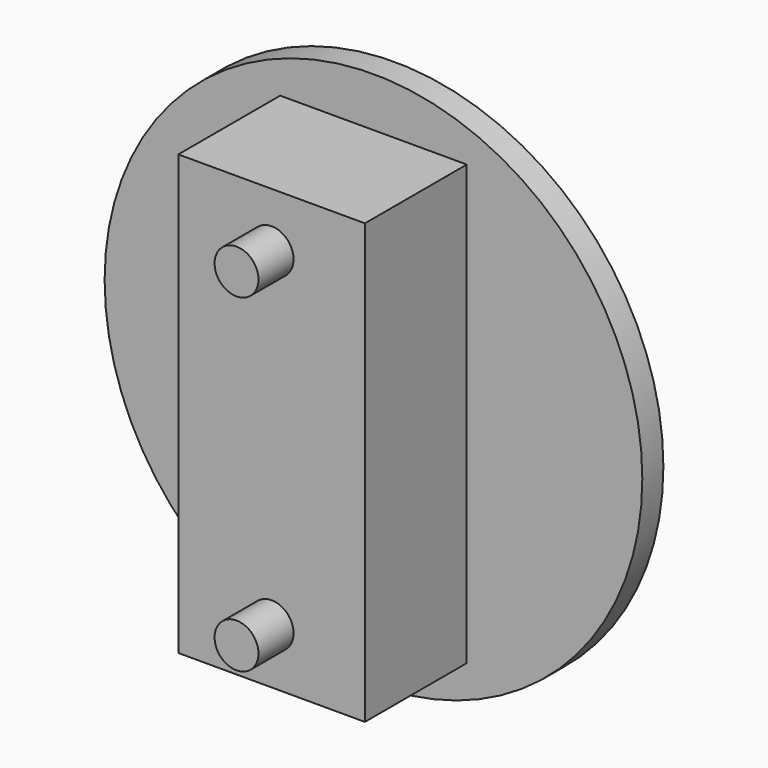
from build123d import *

# Parameters (mm, degrees)
F0_R     = 12.25
F0_W     = 8.5
F0_H     = 20
F1_DEPTH = 1.2
F0_R_2   = 1
F2_DEPTH = 7
F3_DEPTH = 9


with BuildPart() as f1:
    # F0 (on Front) → F1 (new body)
    with BuildSketch(Plane.XZ):
        Circle(F0_R)
        Rectangle(F0_W, F0_H, mode=Mode.SUBTRACT)
    extrude(amount=F1_DEPTH)

    # F0 (on Front) → F2 (join)
    with BuildSketch(Plane.XZ):
        Rectangle(F0_W, F0_H)
        with Locations((0, -7.5)):
            Circle(F0_R_2, mode=Mode.SUBTRACT)
        with Locations((0, 7.5)):
            Circle(F0_R_2, mode=Mode.SUBTRACT)
    extrude(amount=F2_DEPTH)

    # F0 (on Front) → F3 (join)
    with BuildSketch(Plane.XZ):
        with Locations((0, 7.5)):
            Circle(F0_R_2)
        with Locations((0, -7.5)):
            Circle(F0_R_2)
    extrude(amount=F3_DEPTH)


solid = f1.part
